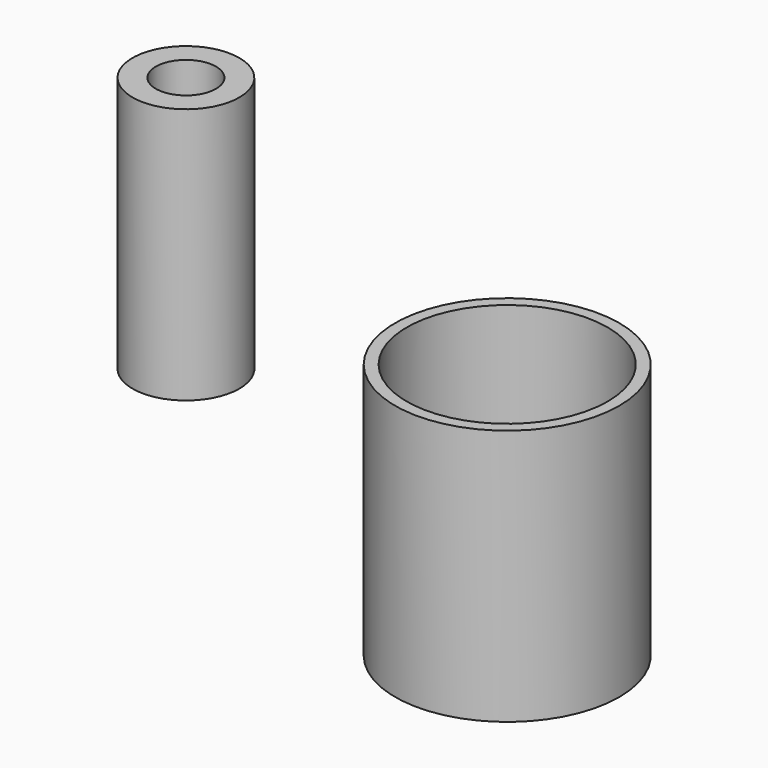
from build123d import *

# Parameters (mm, degrees)
F0_R     = 32.296084
F0_R_2   = 18.18569
F0_R_3   = 67.731987
F0_R_4   = 60.700342
F1_DEPTH = 154.94


with BuildPart() as f1:
    # F0 (on Top) → F1 (new body)
    with BuildSketch(Plane.XY):
        with Locations((-447.913498, 169.444874)):
            Circle(F0_R)
        with Locations((-447.913498, 169.444874)):
            Circle(F0_R_2, mode=Mode.SUBTRACT)
        with Locations((-146.498293, 35.349309)):
            Circle(F0_R_3)
        with Locations((-146.498293, 35.349309)):
            Circle(F0_R_4, mode=Mode.SUBTRACT)
    extrude(amount=F1_DEPTH)


solid = f1.part
